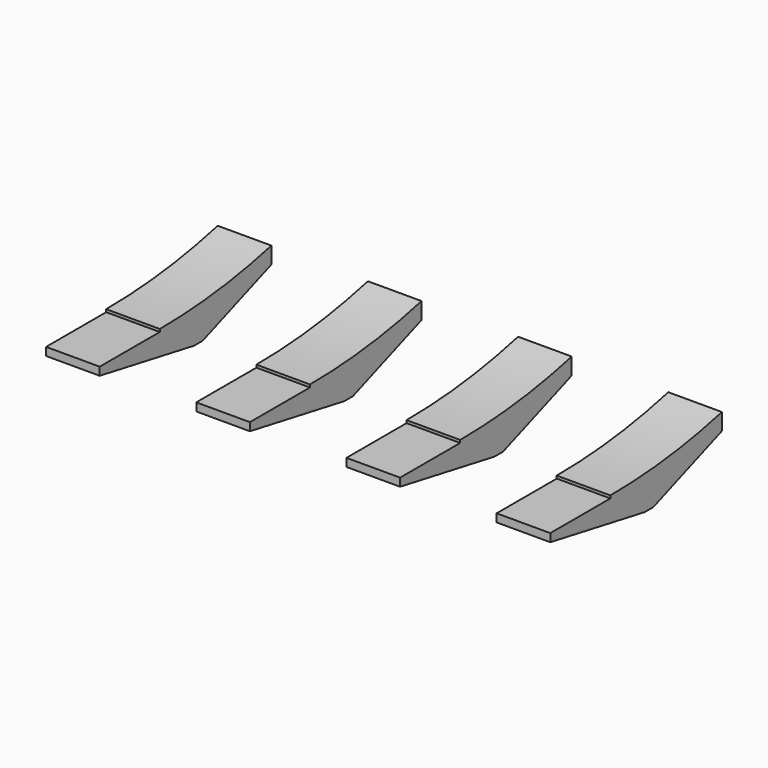
from build123d import *

# Parameters (mm, degrees)
CYLINDER1244_W     = 55
CYLINDER1244_H     = 60
CYLINDER1244_ANGLE = 80
BOX524_W           = 10
BOX524_H           = 20
BOX524_DEPTH       = 6
BOX523_W           = 5
BOX523_H           = 20
BOX523_DEPTH       = 6
CHAMFER014_SIZE2   = 8
CHAMFER014_SIZE    = 3
CHAMFER015_SIZE2   = 2
CHAMFER015_SIZE    = 11
CYLINDER1246_W     = 55
CYLINDER1246_H     = 60
CYLINDER1246_ANGLE = 80
BOX528_W           = 10
BOX528_H           = 20
BOX528_DEPTH       = 6
BOX527_W           = 5
BOX527_H           = 20
BOX527_DEPTH       = 6
CHAMFER018_SIZE2   = 8
CHAMFER018_SIZE    = 3
CHAMFER019_SIZE2   = 2
CHAMFER019_SIZE    = 11
CYLINDER1245_W     = 55
CYLINDER1245_H     = 60
CYLINDER1245_ANGLE = 80
BOX526_W           = 10
BOX526_H           = 20
BOX526_DEPTH       = 6
BOX525_W           = 5
BOX525_H           = 20
BOX525_DEPTH       = 6
CHAMFER016_SIZE2   = 8
CHAMFER016_SIZE    = 3
CHAMFER017_SIZE2   = 2
CHAMFER017_SIZE    = 11
CYLINDER1243_W     = 55
CYLINDER1243_H     = 60
CYLINDER1243_ANGLE = 80
BOX522_W           = 10
BOX522_H           = 20
BOX522_DEPTH       = 6
BOX521_W           = 5
BOX521_H           = 20
BOX521_DEPTH       = 6
CHAMFER012_SIZE2   = 8
CHAMFER012_SIZE    = 3
CHAMFER013_SIZE2   = 2
CHAMFER013_SIZE    = 11


with BuildPart() as cylinder1244:
    # Cylinder1244 → Cylinder1244 (revolve)
    with BuildSketch(Plane(origin=(432, 85, 100), x_dir=(0, 0, -1), z_dir=(0, -1, 0))):
        with Locations((27.5, 30)):
            Rectangle(CYLINDER1244_W, CYLINDER1244_H)
    revolve(axis=Axis((432, 85, 100), (1, 0, 0)), revolution_arc=CYLINDER1244_ANGLE)


with BuildPart() as fusion248002050144:
    # Box524 → Box524 (new body)
    with BuildSketch(Plane(origin=(434, 65, 44.75), x_dir=(1, 0, 0), z_dir=(0, 0, 1))):
        with Locations((5, 10)):
            Rectangle(BOX524_W, BOX524_H)
    extrude(amount=BOX524_DEPTH)

    # Fusion248002050144: union Cylinder1244
    add(cylinder1244.part)


with BuildPart() as chamfer015:
    # Box523 → Box523 (new body)
    with BuildSketch(Plane(origin=(434, 78, 42), x_dir=(1, 0, 0), z_dir=(0, 0, 1))):
        with Locations((2.5, 10)):
            Rectangle(BOX523_W, BOX523_H)
    extrude(amount=BOX523_DEPTH)

    # Cut014277: cut Fusion248002050144
    add(fusion248002050144.part, mode=Mode.SUBTRACT)

    # Chamfer014
    chamfer014_edges = [chamfer015.edges().sort_by_distance(p)[0] for p in [
        (436.5, 98, 42),
    ]]
    chamfer014_side = chamfer015.faces().sort_by_distance((436.5, 98, 44.279222))[0]
    chamfer(chamfer014_edges, length=CHAMFER014_SIZE, length2=CHAMFER014_SIZE2, reference=chamfer014_side)

    # Chamfer015
    chamfer015_edges = [chamfer015.edges().sort_by_distance(p)[0] for p in [
        (436.5, 78, 42),
    ]]
    chamfer015_side = chamfer015.faces().sort_by_distance((436.5, 84, 42))[0]
    chamfer(chamfer015_edges, length=CHAMFER015_SIZE, length2=CHAMFER015_SIZE2, reference=chamfer015_side)


with BuildPart() as chamfer015_1:
    # Chamfer015 placement: moved
    add(chamfer015.part.moved(Location((29, 0, 9))))


with BuildPart() as cylinder1246:
    # Cylinder1246 → Cylinder1246 (revolve)
    with BuildSketch(Plane(origin=(432, 85, 100), x_dir=(0, 0, -1), z_dir=(0, -1, 0))):
        with Locations((27.5, 30)):
            Rectangle(CYLINDER1246_W, CYLINDER1246_H)
    revolve(axis=Axis((432, 85, 100), (1, 0, 0)), revolution_arc=CYLINDER1246_ANGLE)


with BuildPart() as fusion248002050146:
    # Box528 → Box528 (new body)
    with BuildSketch(Plane(origin=(434, 65, 44.75), x_dir=(1, 0, 0), z_dir=(0, 0, 1))):
        with Locations((5, 10)):
            Rectangle(BOX528_W, BOX528_H)
    extrude(amount=BOX528_DEPTH)

    # Fusion248002050146: union Cylinder1246
    add(cylinder1246.part)


with BuildPart() as chamfer019:
    # Box527 → Box527 (new body)
    with BuildSketch(Plane(origin=(434, 78, 42), x_dir=(1, 0, 0), z_dir=(0, 0, 1))):
        with Locations((2.5, 10)):
            Rectangle(BOX527_W, BOX527_H)
    extrude(amount=BOX527_DEPTH)

    # Cut014279: cut Fusion248002050146
    add(fusion248002050146.part, mode=Mode.SUBTRACT)

    # Chamfer018
    chamfer018_edges = [chamfer019.edges().sort_by_distance(p)[0] for p in [
        (436.5, 98, 42),
    ]]
    chamfer018_side = chamfer019.faces().sort_by_distance((436.5, 98, 44.279222))[0]
    chamfer(chamfer018_edges, length=CHAMFER018_SIZE, length2=CHAMFER018_SIZE2, reference=chamfer018_side)

    # Chamfer019
    chamfer019_edges = [chamfer019.edges().sort_by_distance(p)[0] for p in [
        (436.5, 78, 42),
    ]]
    chamfer019_side = chamfer019.faces().sort_by_distance((436.5, 84, 42))[0]
    chamfer(chamfer019_edges, length=CHAMFER019_SIZE, length2=CHAMFER019_SIZE2, reference=chamfer019_side)


with BuildPart() as chamfer019_1:
    # Chamfer019 placement: moved
    add(chamfer019.part.moved(Location((43, 0, 9))))


with BuildPart() as cylinder1245:
    # Cylinder1245 → Cylinder1245 (revolve)
    with BuildSketch(Plane(origin=(432, 85, 100), x_dir=(0, 0, -1), z_dir=(0, -1, 0))):
        with Locations((27.5, 30)):
            Rectangle(CYLINDER1245_W, CYLINDER1245_H)
    revolve(axis=Axis((432, 85, 100), (1, 0, 0)), revolution_arc=CYLINDER1245_ANGLE)


with BuildPart() as fusion248002050145:
    # Box526 → Box526 (new body)
    with BuildSketch(Plane(origin=(434, 65, 44.75), x_dir=(1, 0, 0), z_dir=(0, 0, 1))):
        with Locations((5, 10)):
            Rectangle(BOX526_W, BOX526_H)
    extrude(amount=BOX526_DEPTH)

    # Fusion248002050145: union Cylinder1245
    add(cylinder1245.part)


with BuildPart() as chamfer017:
    # Box525 → Box525 (new body)
    with BuildSketch(Plane(origin=(434, 78, 42), x_dir=(1, 0, 0), z_dir=(0, 0, 1))):
        with Locations((2.5, 10)):
            Rectangle(BOX525_W, BOX525_H)
    extrude(amount=BOX525_DEPTH)

    # Cut014278: cut Fusion248002050145
    add(fusion248002050145.part, mode=Mode.SUBTRACT)

    # Chamfer016
    chamfer016_edges = [chamfer017.edges().sort_by_distance(p)[0] for p in [
        (436.5, 98, 42),
    ]]
    chamfer016_side = chamfer017.faces().sort_by_distance((436.5, 98, 44.279222))[0]
    chamfer(chamfer016_edges, length=CHAMFER016_SIZE, length2=CHAMFER016_SIZE2, reference=chamfer016_side)

    # Chamfer017
    chamfer017_edges = [chamfer017.edges().sort_by_distance(p)[0] for p in [
        (436.5, 78, 42),
    ]]
    chamfer017_side = chamfer017.faces().sort_by_distance((436.5, 84, 42))[0]
    chamfer(chamfer017_edges, length=CHAMFER017_SIZE, length2=CHAMFER017_SIZE2, reference=chamfer017_side)


with BuildPart() as chamfer017_1:
    # Chamfer017 placement: moved
    add(chamfer017.part.moved(Location((15, 0, 9))))


with BuildPart() as cylinder1243:
    # Cylinder1243 → Cylinder1243 (revolve)
    with BuildSketch(Plane(origin=(432, 85, 100), x_dir=(0, 0, -1), z_dir=(0, -1, 0))):
        with Locations((27.5, 30)):
            Rectangle(CYLINDER1243_W, CYLINDER1243_H)
    revolve(axis=Axis((432, 85, 100), (1, 0, 0)), revolution_arc=CYLINDER1243_ANGLE)


with BuildPart() as fusion248002050143:
    # Box522 → Box522 (new body)
    with BuildSketch(Plane(origin=(434, 65, 44.75), x_dir=(1, 0, 0), z_dir=(0, 0, 1))):
        with Locations((5, 10)):
            Rectangle(BOX522_W, BOX522_H)
    extrude(amount=BOX522_DEPTH)

    # Fusion248002050143: union Cylinder1243
    add(cylinder1243.part)


with BuildPart() as fusion248002050239:
    # Box521 → Box521 (new body)
    with BuildSketch(Plane(origin=(434, 78, 42), x_dir=(1, 0, 0), z_dir=(0, 0, 1))):
        with Locations((2.5, 10)):
            Rectangle(BOX521_W, BOX521_H)
    extrude(amount=BOX521_DEPTH)

    # Cut014276: cut Fusion248002050143
    add(fusion248002050143.part, mode=Mode.SUBTRACT)

    # Chamfer012
    chamfer012_edges = [fusion248002050239.edges().sort_by_distance(p)[0] for p in [
        (436.5, 98, 42),
    ]]
    chamfer012_side = fusion248002050239.faces().sort_by_distance((436.5, 98, 44.279222))[0]
    chamfer(chamfer012_edges, length=CHAMFER012_SIZE, length2=CHAMFER012_SIZE2, reference=chamfer012_side)

    # Chamfer013
    chamfer013_edges = [fusion248002050239.edges().sort_by_distance(p)[0] for p in [
        (436.5, 78, 42),
    ]]
    chamfer013_side = fusion248002050239.faces().sort_by_distance((436.5, 84, 42))[0]
    chamfer(chamfer013_edges, length=CHAMFER013_SIZE, length2=CHAMFER013_SIZE2, reference=chamfer013_side)


with BuildPart() as fusion248002050239_1:
    # Chamfer013 placement: moved
    add(fusion248002050239.part.moved(Location((1, 0, 9))))

    # Fusion248002050239: union Chamfer015, Chamfer019, Chamfer017
    add(chamfer015_1.part)
    add(chamfer019_1.part)
    add(chamfer017_1.part)


solid = fusion248002050239_1.part
